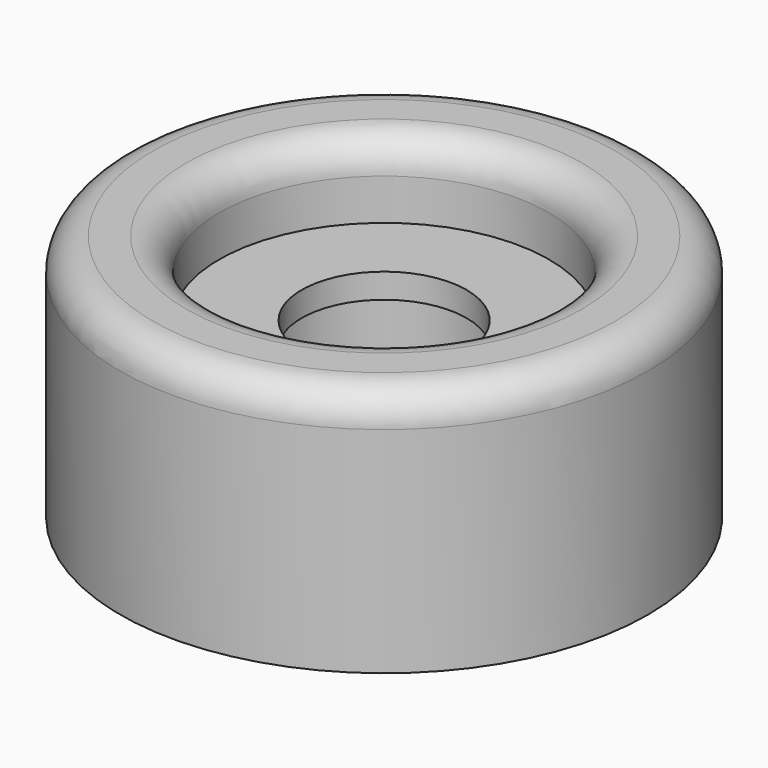
from build123d import *

# Parameters (mm, degrees)
F0_R      = 16
F1_DEPTH  = 15
F2_R      = 10
F3_DEPTH  = 4.5
F4_R      = 14
F4_R_2    = 8
F5_DEPTH  = 10
F6_R      = 6
F7_DEPTH  = 9
F8_R      = 5
F9_DEPTH  = 25
F10_R     = 8
F10_R_2   = 6
F11_DEPTH = 2
F12_R     = 2


with BuildPart() as f1:
    # F0 (on Top) → F1 (new body)
    with BuildSketch(Plane.XY):
        Circle(F0_R)
    extrude(amount=F1_DEPTH)

    # F2 (on face) → F3 (cut)
    with BuildSketch(Plane.XY.offset(15)):
        Circle(F2_R)
    extrude(amount=-F3_DEPTH, mode=Mode.SUBTRACT)

    # F4 (on face) → F5 (cut)
    with BuildSketch(Plane(origin=(0, 0, 0), x_dir=(1, 0, 0), z_dir=(0, 0, -1))):
        Circle(F4_R)
        Circle(F4_R_2, mode=Mode.SUBTRACT)
    extrude(amount=-F5_DEPTH, mode=Mode.SUBTRACT)

    # F6 (on face) → F7 (cut)
    with BuildSketch(Plane(origin=(0, 0, 0), x_dir=(1, 0, 0), z_dir=(0, 0, -1))):
        Circle(F6_R)
    extrude(amount=-F7_DEPTH, mode=Mode.SUBTRACT)

    # F8 (on face) → F9 (cut)
    with BuildSketch(Plane.XY.offset(10.5)):
        Circle(F8_R)
    extrude(amount=-F9_DEPTH, mode=Mode.SUBTRACT)

    # F10 (on face) → F11 (cut)
    with BuildSketch(Plane(origin=(0, 0, 0), x_dir=(1, 0, 0), z_dir=(0, 0, -1))):
        Circle(F10_R)
        Circle(F10_R_2, mode=Mode.SUBTRACT)
    extrude(amount=-F11_DEPTH, mode=Mode.SUBTRACT)

    # F12
    f12_edges = [f1.edges().sort_by_distance(p)[0] for p in [
        (-16, 0, 15),
        (-10, 0, 15),
    ]]
    fillet(f12_edges, radius=F12_R)


solid = f1.part
